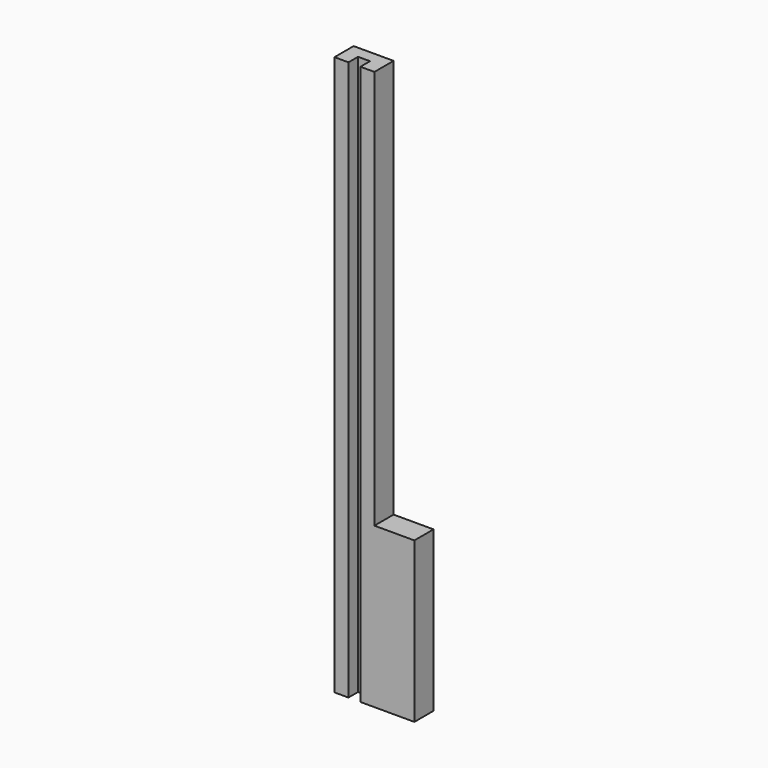
from build123d import *

# Parameters (mm, degrees)
F1_DEPTH = 3
F2_W     = 1.5
F2_H     = 70
F3_DEPTH = 1.5


with BuildPart() as f1:
    # F0 (on Front) → F1 (new body)
    with BuildSketch(Plane.XZ):
        Polygon((10, 0), (5, 0), (5, 50), (0, 50), (0, 0), (0, -20), (10, -20), align=None)
    extrude(amount=F1_DEPTH)

    # F2 (on face) → F3 (cut)
    with BuildSketch(Plane.XZ.offset(3)):
        with Locations((2.5, 15)):
            Rectangle(F2_W, F2_H)
    extrude(amount=-F3_DEPTH, mode=Mode.SUBTRACT)


solid = f1.part
